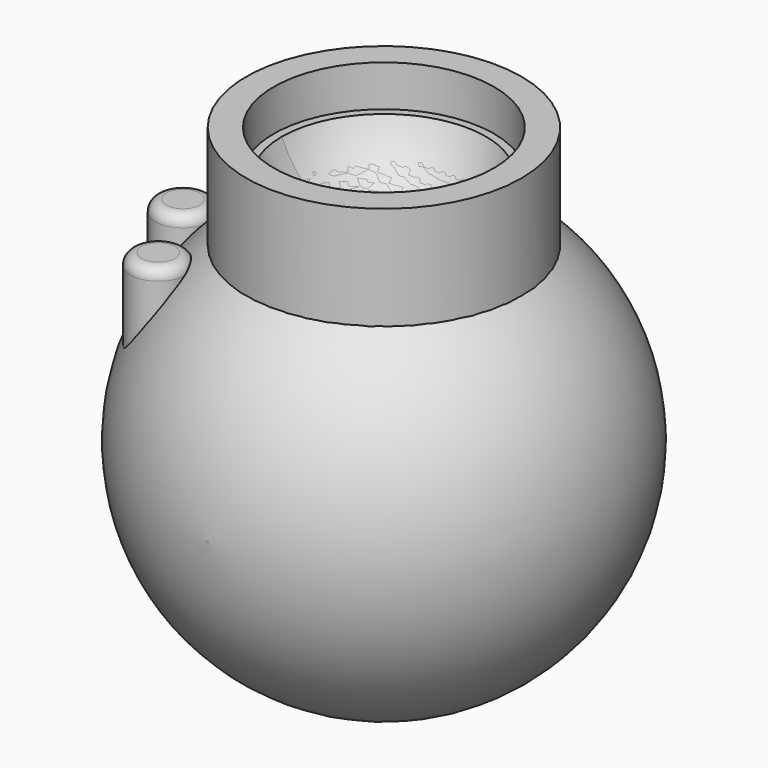
from build123d import *

# Parameters (mm, degrees)
F2_R     = 31.75
F2_R_2   = 25.4
F3_DEPTH = 63.5
F4_DEPTH = 53.975
F2_R_3   = 6.35
F7_DEPTH = 38.1
F8_DEPTH = 38.1
F9_R     = 2.54
F9_2_R   = 2.54


with BuildPart() as f1:
    # F0 (on Top) → F1 (revolve)
    with BuildSketch(Plane.XY):
        with BuildLine():
            Line((0, 50.8), (0, -50.8))
            ThreePointArc((0, -50.8), (0.0842871743, -50.7999300755), (0.1685741165, -50.7997203021))
            ThreePointArc((0.1685741165, -50.7997203021), (50.7999300755, 0.0842871743), (0, 50.8))
        make_face()
    revolve(axis=Axis((0, 0, 0), (0, 1, 0)))


with BuildPart() as f3:
    # F2 (on Top) → F3 (new body)
    with BuildSketch(Plane.XY):
        Circle(F2_R)
        Circle(F2_R_2, mode=Mode.SUBTRACT)
    extrude(amount=F3_DEPTH)

    # F2 (on Top) → F4 (join)
    with BuildSketch(Plane.XY):
        Circle(F2_R_2)
    extrude(amount=F4_DEPTH)


with BuildPart() as f6_tool:
    # F5 (on face) → F6 (revolve)
    with BuildSketch(Plane.XY.offset(63.5)):
        with BuildLine():
            ThreePointArc((25.4, 0), (17.9605122421, 17.9605122421), (0, 25.4))
            Line((0, 25.4), (0, -25.4))
            ThreePointArc((0, -25.4), (17.9605122421, -17.9605122421), (25.4, 0))
        make_face()
    revolve(axis=Axis((0, 0, 63.5), (0, -1, 0)))


with BuildPart() as f1_1:
    add(f1.part)

    # F6: cut by f6_tool
    add(f6_tool.part, mode=Mode.SUBTRACT)


with BuildPart() as f3_1:
    add(f3.part)

    # F6: cut by f6_tool
    add(f6_tool.part, mode=Mode.SUBTRACT)


with BuildPart() as f7:
    # F2 (on Top) → F7 (new body)
    with BuildSketch(Plane.XY):
        with Locations((-41.275, -6.35)):
            Circle(F2_R_3)
    extrude(amount=F7_DEPTH)

    # F9
    f9_edges = [f7.edges().sort_by_distance(p)[0] for p in [
        (-47.625, -6.35, 38.1),
    ]]
    fillet(f9_edges, radius=F9_R)


with BuildPart() as f8:
    # F2 (on Top) → F8 (new body)
    with BuildSketch(Plane.XY):
        with Locations((-31.75, -25.4)):
            Circle(F2_R_3)
    extrude(amount=F8_DEPTH)

    # F9#2
    f9_2_edges = [f8.edges().sort_by_distance(p)[0] for p in [
        (-38.1, -25.4, 38.1),
    ]]
    fillet(f9_2_edges, radius=F9_2_R)


solid = Compound([f1_1.part, f3_1.part, f7.part, f8.part])
